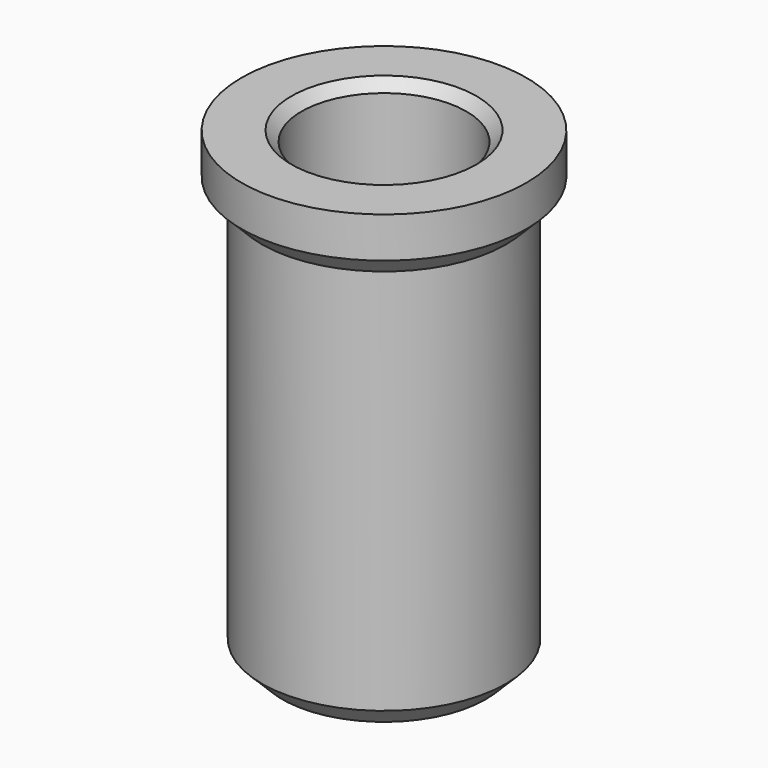
from build123d import *

# Parameters (mm, degrees)
CYLINDER001_R     = 4.05
CYLINDER001_DEPTH = 28
CYLINDER_R        = 6
CYLINDER_DEPTH    = 21
SKETCH_R          = 7
PAD_DEPTH         = 2
CHAMFER_SIZE      = 0.99
CHAMFER001_SIZE   = 1
CHAMFER002_SIZE   = 0.5


with BuildPart() as cilindro001:
    # Cylinder001 → Cylinder001 (new body)
    with BuildSketch(Plane.XY.offset(-1)):
        Circle(CYLINDER001_R)
    extrude(amount=CYLINDER001_DEPTH)


with BuildPart() as chamfer002:
    # Cylinder → Cylinder (new body)
    with BuildSketch(Plane.XY):
        Circle(CYLINDER_R)
    extrude(amount=CYLINDER_DEPTH)

    # Sketch → Pad (new body)
    with BuildSketch(Plane.XY.offset(21)):
        Circle(SKETCH_R)
    extrude(amount=PAD_DEPTH)

    # Cut: cut Cilindro001
    add(cilindro001.part, mode=Mode.SUBTRACT)

    # Chamfer
    chamfer_edges = [chamfer002.edges().sort_by_distance(p)[0] for p in [
        (-6, 0, 21),
    ]]
    chamfer(chamfer_edges, length=CHAMFER_SIZE)

    # Chamfer001
    chamfer001_edges = [chamfer002.edges().sort_by_distance(p)[0] for p in [
        (-6, 0, 0),
    ]]
    chamfer(chamfer001_edges, length=CHAMFER001_SIZE)

    # Chamfer002
    chamfer002_edges = [chamfer002.edges().sort_by_distance(p)[0] for p in [
        (-4.05, 0, 23),
    ]]
    chamfer(chamfer002_edges, length=CHAMFER002_SIZE)


solid = chamfer002.part
